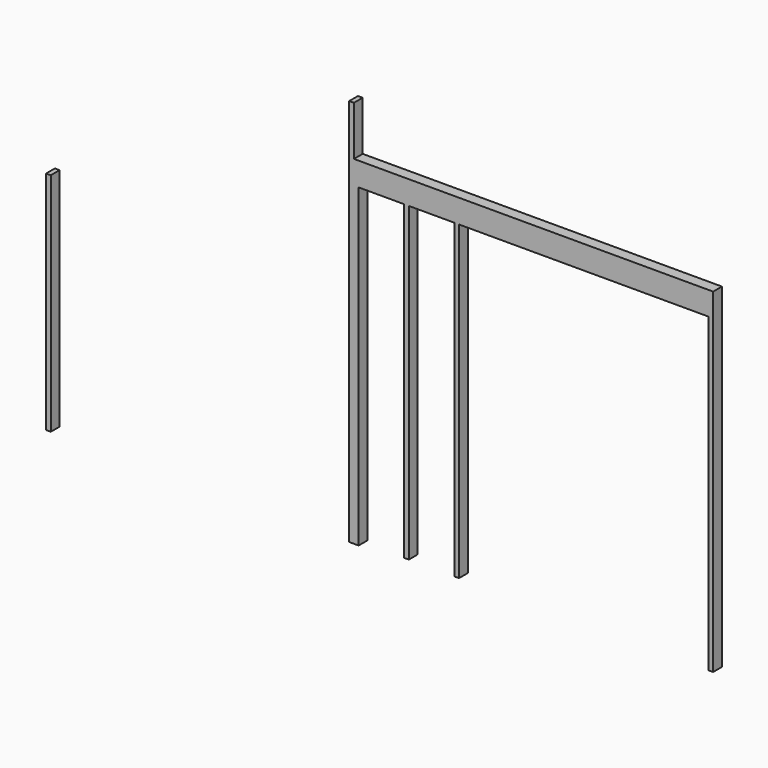
from build123d import *

# Parameters (mm, degrees)
F0_W     = 38.1
F0_H     = 1828.8
F0_H_2   = 2520.95
F0_H_3   = 2552.7
F1_DEPTH = 88.9


with BuildPart() as f1:
    # F0 (on Front) → F1 (new body)
    with BuildSketch(Plane.XZ):
        with Locations((-2306.326113, -687.774918)):
            Rectangle(F0_W, F0_H)
        with Locations((3056.248887, -309.949918)):
            Rectangle(F0_W, F0_H_2)
        with Locations((998.848887, -309.949918)):
            Rectangle(F0_W, F0_H_2)
        with Locations((592.448887, -309.949918)):
            Rectangle(F0_W, F0_H_2)
        with Locations((186.048887, -325.824918)):
            Rectangle(F0_W, F0_H_3)
        Polygon((166.998887, 950.525082), (166.998887, 1141.025082), (166.998887, 1541.075082), (128.898887, 1541.075082), (128.898887, -1602.174918), (166.998887, -1602.174918), align=None)
        Polygon((3037.198887, 950.525082), (3075.298887, 950.525082), (3075.298887, 1141.025082), (166.998887, 1141.025082), (166.998887, 950.525082), (205.098887, 950.525082), (573.398887, 950.525082), (611.498887, 950.525082), (979.798887, 950.525082), (1017.898887, 950.525082), align=None)
    extrude(amount=F1_DEPTH)


solid = f1.part
